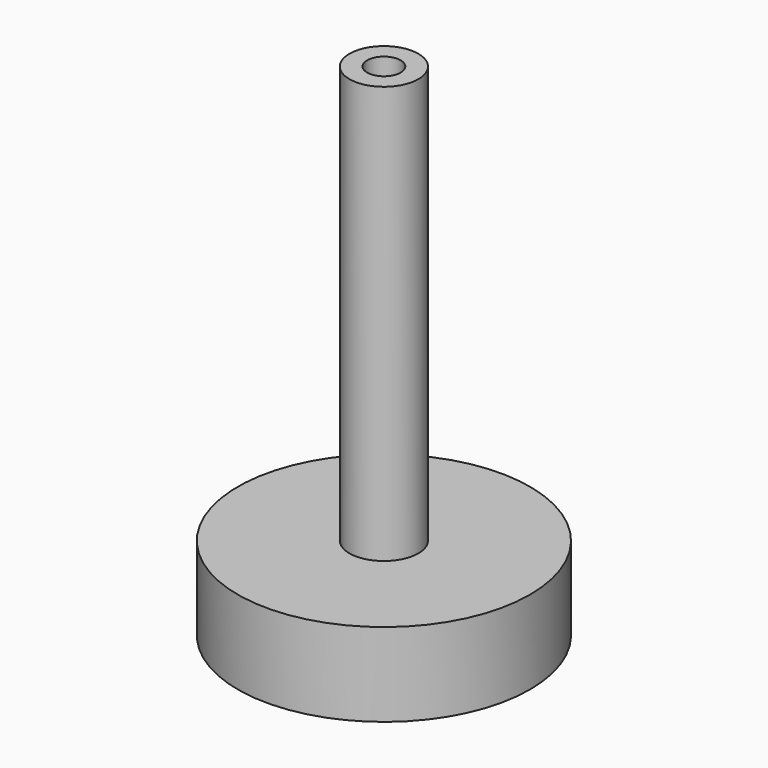
from build123d import *

# Parameters (mm, degrees)
F0_R     = 35
F0_R_2   = 27
F1_DEPTH = 20
F2_START = 15
F2_DEPTH = 5
F3_R     = 8.25
F3_R_2   = 4
F4_DEPTH = 100
F5_DEPTH = 12


with BuildPart() as f1:
    # F0 (on Top) → F1 (new body)
    with BuildSketch(Plane.XY):
        Circle(F0_R)
        Circle(F0_R_2, mode=Mode.SUBTRACT)
    extrude(amount=F1_DEPTH)

    # F0 (on Top) → F2 (join)
    with BuildSketch(Plane.XY.offset(F2_START)):
        Circle(F0_R_2)
    extrude(amount=F2_DEPTH)

    # F3 (on face) → F4 (join)
    with BuildSketch(Plane.XY.offset(20)):
        Circle(F3_R)
        Circle(F3_R_2, mode=Mode.SUBTRACT)
    extrude(amount=F4_DEPTH)

    # F5 (cut): a face of the model
    f5_faces = [f1.faces().sort_by_distance(p)[0] for p in [
        (0, 0, 20),
    ]]
    extrude(f5_faces, amount=-F5_DEPTH, mode=Mode.SUBTRACT)


solid = f1.part
